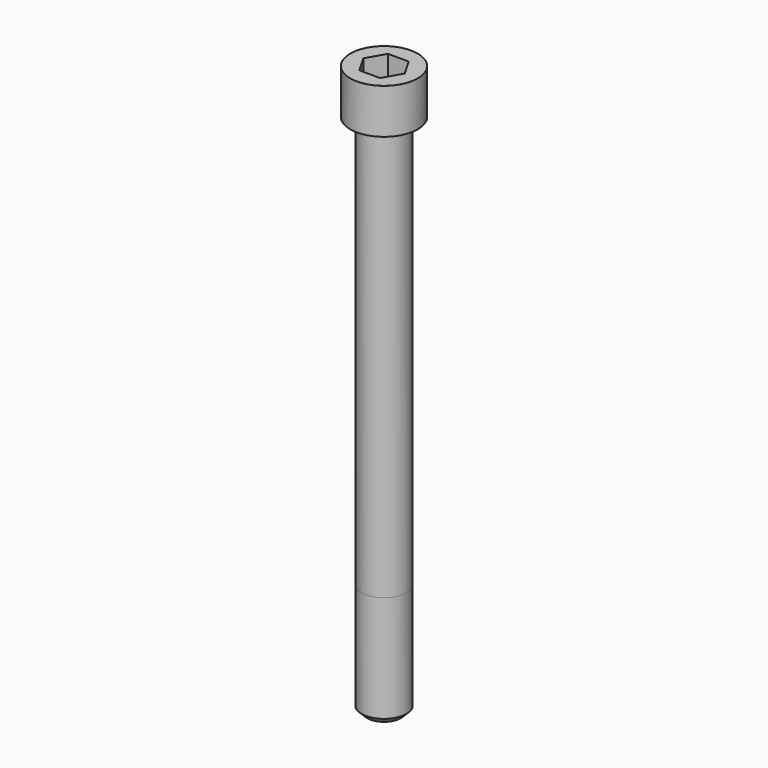
from build123d import *

# Parameters (mm, degrees)
POCKET_DEPTH = 19.15


with BuildPart() as part:
    # Sketch → Revolve (revolve)
    with BuildSketch(Plane.YZ):
        with BuildLine():
            Line((11.999, 0), (18, 0))
            Line((18, 0), (18, 23.97229))
            ThreePointArc((18, 23.97229), (17.991884, 23.991884), (17.97229, 24))
            Line((17.97229, 24), (0, 24))
            Line((0, -280), (0, 24))
            Line((9, -280), (0, -280))
            Line((12, -277), (9, -280))
            Line((12, -220), (12, -277))
            Line((11.999, 0), (12, -220))
        make_face()
    revolve(axis=Axis((0, 0, 0), (0, 0, 1)))

    # Sketch001 → Pocket (cut)
    with BuildSketch(Plane.XY.offset(24)):
        Polygon((11.056258, 0), (5.528129, 9.575), (-5.528129, 9.575), (-11.056258, 0), (-5.528129, -9.575), (5.528129, -9.575), align=None)
    extrude(amount=-POCKET_DEPTH, mode=Mode.SUBTRACT)


solid = part.part
